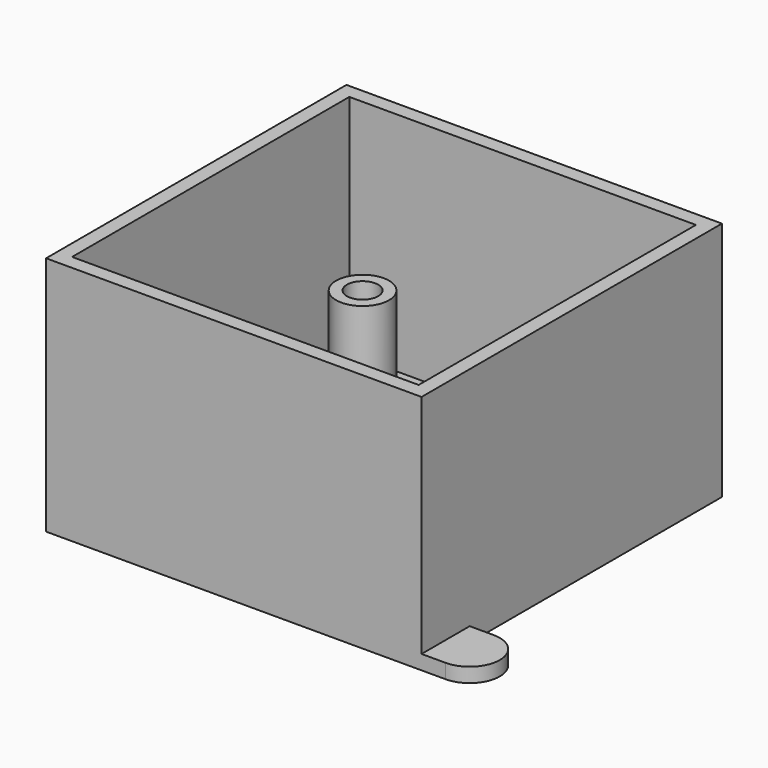
from build123d import *

# Parameters (mm, degrees)
SKETCH002_R   = 2.2
SKETCH002_R_2 = 1.3
SKETCH002_W   = 3
SKETCH002_H   = 3
PAD_DEPTH     = 7
SKETCH_W      = 31.2
SKETCH_H      = 31.2
SKETCH_W_2    = 28.8
SKETCH_H_2    = 28.8
PAD002_DEPTH  = 18.8
SKETCH003_W   = 3
SKETCH003_H   = 3
PAD003_DEPTH  = 2
PAD001_DEPTH  = 1.2


with BuildPart() as pad:
    # Sketch002 → Pad (new body)
    with BuildSketch(Plane.XY.offset(1.2)):
        with Locations((-10.9, 11.4)):
            Circle(SKETCH002_R)
        with Locations((-10.9, 11.4)):
            Circle(SKETCH002_R_2, mode=Mode.SUBTRACT)
        with Locations((10.9, 11.4)):
            Circle(SKETCH002_R)
        with Locations((10.9, 11.4)):
            Circle(SKETCH002_R_2, mode=Mode.SUBTRACT)
        with Locations((-12.9, -12.9)):
            Rectangle(SKETCH002_W, SKETCH002_H)
    extrude(amount=PAD_DEPTH)


with BuildPart() as pad002:
    # Sketch → Pad002 (new body)
    with BuildSketch(Plane.XY.offset(1.2)):
        Rectangle(SKETCH_W, SKETCH_H)
        Rectangle(SKETCH_W_2, SKETCH_H_2, mode=Mode.SUBTRACT)
    extrude(amount=PAD002_DEPTH)


with BuildPart() as pad003:
    # Sketch003 → Pad003 (new body)
    with BuildSketch(Plane.XY.offset(10)):
        with Locations((-12.9, -12.9)):
            Rectangle(SKETCH003_W, SKETCH003_H)
    extrude(amount=PAD003_DEPTH)


with BuildPart() as fusion:
    # Sketch001 → Pad001 (new body)
    with BuildSketch(Plane.XY):
        with BuildLine():
            Line((-15.6, 15.6), (15.6, 15.6))
            Line((15.6, 15.6), (15.6, -10.6))
            Line((15.6, -10.6), (17.6, -10.60001))
            ThreePointArc((17.6, -15.6), (20.099979, -13.100005), (17.6, -10.60001))
            Line((15.6, -15.6), (17.6, -15.6))
            Line((15.6, -15.6), (-15.6, -15.6))
            Line((-15.6, -15.6), (-15.6, 10.6))
            Line((-17.6, 10.6), (-15.6, 10.6))
            ThreePointArc((-17.6, 15.6), (-20.099999, 13.1), (-17.6, 10.6))
            Line((-17.6, 15.6), (-15.6, 15.6))
        make_face()
    extrude(amount=PAD001_DEPTH)

    # Fusion: union Pad, Pad002, Pad003
    add(pad.part)
    add(pad002.part)
    add(pad003.part)


solid = fusion.part
